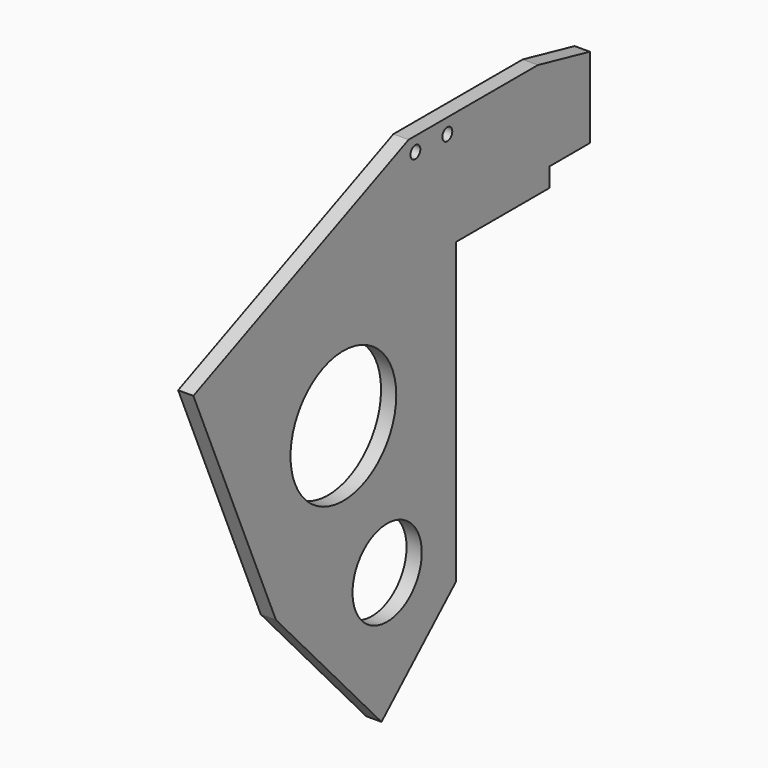
from build123d import *

# Parameters (mm, degrees)
F0_R     = 4.55
F0_R_2   = 6.95
F0_R_3   = 0.65
F1_DEPTH = 1.6


with BuildPart() as f1:
    # F0 (on Right) → F1 (new body)
    with BuildSketch(Plane.YZ):
        Polygon((5.01199, -29.453935), (14.8, -20.449221), (14.8, 11.000779), (27.1, 11.000779), (27.1, 13.000779), (32.4, 13.000779), (32.4, 21.460779), (25.571501, 23.000779), (8.571501, 23.000779), (-19.723812, 10.790342), (-8.867455, -14.367152), align=None)
        with Locations((5.75, -15.934274)):
            Circle(F0_R, mode=Mode.SUBTRACT)
        Circle(F0_R_2, mode=Mode.SUBTRACT)
        with Locations((9.462554, 21.492073)):
            Circle(F0_R_3, mode=Mode.SUBTRACT)
        with Locations((13.662554, 21.43904)):
            Circle(F0_R_3, mode=Mode.SUBTRACT)
    extrude(amount=F1_DEPTH)


solid = f1.part
